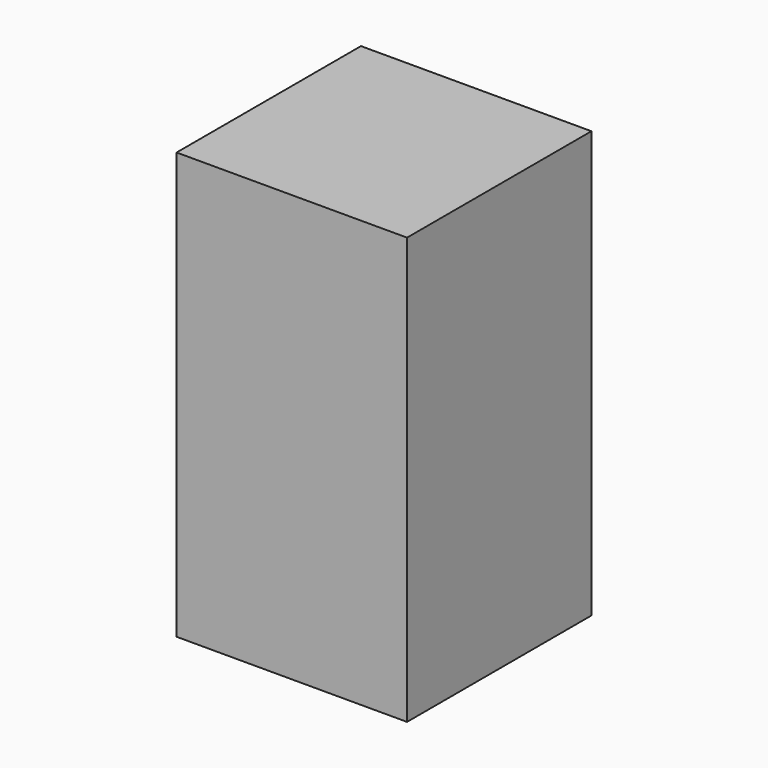
from build123d import *

# Parameters (mm, degrees)
SKETCH_W  = 20
SKETCH_H  = 20
PAD_DEPTH = 37


with BuildPart() as part:
    # Sketch → Pad (new body)
    with BuildSketch(Plane.XY):
        with Locations((10, -10)):
            Rectangle(SKETCH_W, SKETCH_H)
    extrude(amount=PAD_DEPTH)


solid = part.part
